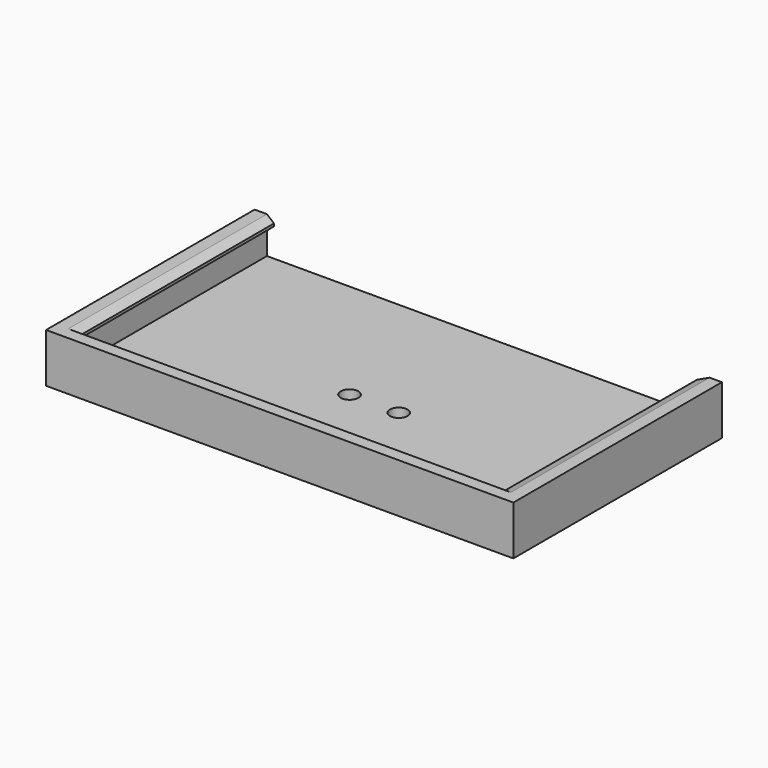
from build123d import *

# Parameters (mm, degrees)
F0_W     = 120.65
F0_H     = 67.31
F1_DEPTH = 6.35
F2_T     = -3.175
F3_W     = 64.135
F3_H     = 2.54
F4_DEPTH = 2.54
F4_TAPER = 20
F6_R     = 2.286
F7_DEPTH = 25.4


with BuildPart() as f1:
    # F0 (on Top) → F1 (new body, symmetric)
    with BuildSketch(Plane.XY):
        Rectangle(F0_W, F0_H)
    extrude(amount=F1_DEPTH, both=True)

    # F2
    f2_openings = [f1.faces().sort_by_distance(p)[0] for p in [
        (0, 0, 6.35),
        (0, 33.655, 0),
    ]]
    offset(amount=F2_T, openings=f2_openings)

    # F3 (on face) → F4 (join)
    with BuildSketch(Plane.YZ.offset(-57.15)):
        with Locations((1.5875, 5.08)):
            Rectangle(F3_W, F3_H)
    extrude(amount=F4_DEPTH, taper=F4_TAPER)

    # F5: F1 across plane


with BuildPart() as f1_1:
    add(f1.part)
    add(f1.part.mirror(Plane.YZ))

    # F6 (on face) → F7 (cut)
    with BuildSketch(Plane.XY.offset(-3.175)):
        with Locations((-6.35, -3.1835122595)):
            Circle(F6_R)
        with Locations((6.35, -3.1835122595)):
            Circle(F6_R)
    extrude(amount=-F7_DEPTH, mode=Mode.SUBTRACT)


solid = f1_1.part
